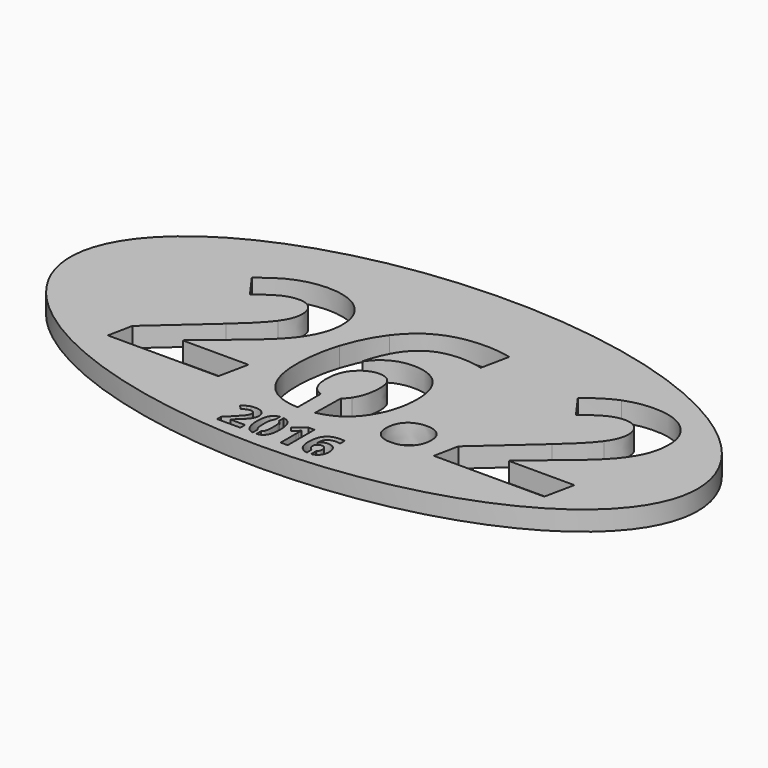
from build123d import *

# Parameters (mm, degrees)
F1_DEPTH = 3.175
F3_DEPTH = 3.175


with BuildPart() as f1:
    # F0 (on Top) → F1 (new body)
    with BuildSketch(Plane.XY):
        with BuildLine():
            add(Edge.make_bspline(
                [(50.8, 0), (50.8, 43.9940905122), (-25.4, 21.9970452561), (-101.6, 0), (-25.4, -21.9970452561), (50.8, -43.9940905122), (50.8, 0)],
                knots=[0, 0, 0, 2.0943951024, 2.0943951024, 4.1887902048, 4.1887902048, 6.2831853072, 6.2831853072, 6.2831853072], degree=2, weights=[1, 0.5, 1, 0.5, 1, 0.5, 1]))
        make_face()
        with BuildLine():
            Line((-14.7867109591, -8.9636122593), (-15.7918080027, -13.798783244))
            Line((-15.7918080027, -13.798783244), (-33.6694512747, -13.798783244))
            Line((-33.6694512747, -13.798783244), (-32.8725104236, -9.8378682676))
            Line((-32.8725104236, -9.8378682676), (-24.005056625, -1.9576695532))
            add(Edge.make_bspline(
                [(-24.005056625, -1.9576695532), (-20.6626629061, 0.9981483797), (-19.3869628124, 2.7704496754)],
                knots=[0, 0, 0, 1, 1, 1], degree=2))
            add(Edge.make_bspline(
                [(-19.3869628124, 2.7704496754), (-18.1112627186, 4.5427509712), (-18.1112627186, 6.1068960745)],
                knots=[0, 0, 0, 1, 1, 1], degree=2))
            add(Edge.make_bspline(
                [(-18.1112627186, 6.1068960745), (-18.1112627186, 7.4985689041), (-18.8754933109, 8.2330628974)],
                knots=[0, 0, 0, 1, 1, 1], degree=2))
            add(Edge.make_bspline(
                [(-18.8754933109, 8.2330628974), (-19.6397239032, 8.9675568908), (-20.9183976569, 8.9675568908)],
                knots=[0, 0, 0, 1, 1, 1], degree=2))
            add(Edge.make_bspline(
                [(-20.9183976569, 8.9675568908), (-22.1494928522, 8.9675568908), (-23.4400612455, 8.3460619733)],
                knots=[0, 0, 0, 1, 1, 1], degree=2))
            add(Edge.make_bspline(
                [(-23.4400612455, 8.3460619733), (-24.7306296387, 7.7245670559), (-26.6278246499, 6.1425799932)],
                knots=[0, 0, 0, 1, 1, 1], degree=2))
            Line((-26.6278246499, 6.1425799932), (-29.3398024716, 9.9191280563))
            add(Edge.make_bspline(
                [(-29.3398024716, 9.9191280563), (-26.8835594007, 12.0006899809), (-24.6533144815, 12.880893309)],
                knots=[0, 0, 0, 1, 1, 1], degree=2))
            add(Edge.make_bspline(
                [(-24.6533144815, 12.880893309), (-22.4230695623, 13.7610966371), (-20.0084577299, 13.7610966371)],
                knots=[0, 0, 0, 1, 1, 1], degree=2))
            add(Edge.make_bspline(
                [(-20.0084577299, 13.7610966371), (-16.4757497779, 13.7610966371), (-14.4150034726, 11.941216783)],
                knots=[0, 0, 0, 1, 1, 1], degree=2))
            add(Edge.make_bspline(
                [(-14.4150034726, 11.941216783), (-12.3542571673, 10.121336929), (-12.3542571673, 7.1298350774)],
                knots=[0, 0, 0, 1, 1, 1], degree=2))
            add(Edge.make_bspline(
                [(-12.3542571673, 7.1298350774), (-12.3542571673, 5.1374829496), (-13.1155140997, 3.3919445929)],
                knots=[0, 0, 0, 1, 1, 1], degree=2))
            add(Edge.make_bspline(
                [(-13.1155140997, 3.3919445929), (-13.8767710321, 1.6464062362), (-15.3903639172, -0.1021057805)],
                knots=[0, 0, 0, 1, 1, 1], degree=2))
            add(Edge.make_bspline(
                [(-15.3903639172, -0.1021057805), (-16.9039568024, -1.8506177971), (-20.3415076378, -4.6518054156)],
                knots=[0, 0, 0, 1, 1, 1], degree=2))
            Line((-20.3415076378, -4.6518054156), (-25.3432035765, -8.779245346))
            Line((-25.3432035765, -8.779245346), (-25.3432035765, -8.9636122593))
            Line((-25.3432035765, -8.9636122593), (-14.7867109591, -8.9636122593))
        make_face(mode=Mode.SUBTRACT)
        with BuildLine():
            Line((-2.6447877754, -15.1289803907), (-2.6447877754, -14.1658148106))
            add(Edge.make_bspline(
                [(-2.6447877754, -14.1658148106), (-6.2595057728, -14.0390719969), (-8.1524757396, -11.812378436)],
                knots=[0.0569197378, 0.0569197378, 0.0569197378, 1, 1, 1], degree=2))
            add(Edge.make_bspline(
                [(-8.1524757396, -11.812378436), (-10.1596961668, -9.4512924816), (-10.1596961668, -5.08001244)],
                knots=[0, 0, 0, 1, 1, 1], degree=2))
            add(Edge.make_bspline(
                [(-10.1596961668, -5.08001244), (-10.1596961668, -1.3272536561), (-9.0267317479, 2.2679011536)],
                knots=[0, 0, 0, 1, 1, 1], degree=2))
            add(Edge.make_bspline(
                [(-9.0267317479, 2.2679011536), (-7.8937673289, 5.8630559633), (-5.9133098407, 8.494744968)],
                knots=[0, 0, 0, 1, 1, 1], degree=2))
            add(Edge.make_bspline(
                [(-5.9133098407, 8.494744968), (-3.9328523525, 11.1264339726), (-1.1465330335, 12.4645809241)],
                knots=[0, 0, 0, 1, 1, 1], degree=2))
            add(Edge.make_bspline(
                [(-1.1465330335, 12.4645809241), (1.6397862855, 13.8027278756), (5.487702186, 13.8027278756)],
                knots=[0, 0, 0, 1, 1, 1], degree=2))
            add(Edge.make_bspline(
                [(5.487702186, 13.8027278756), (7.8131042218, 13.8027278756), (9.6329840758, 13.2972056939)],
                knots=[0, 0, 0, 1, 1, 1], degree=2))
            Line((9.6329840758, 13.2972056939), (8.6873602301, 8.7296640994))
            add(Edge.make_bspline(
                [(8.6873602301, 8.7296640994), (7.1232151268, 9.1935550426), (5.1368103188, 9.1935550426)],
                knots=[0, 0, 0, 1, 1, 1], degree=2))
            add(Edge.make_bspline(
                [(5.1368103188, 9.1935550426), (1.5327345294, 9.1935550426), (-0.6885894101, 7.1863346154)],
                knots=[0, 0, 0, 1, 1, 1], degree=2))
            add(Edge.make_bspline(
                [(-0.6885894101, 7.1863346154), (-2.9099133496, 5.1791141881), (-4.1350612252, 0.7721502279)],
                knots=[0, 0, 0, 1, 1, 1], degree=2))
            Line((-4.1350612252, 0.7721502279), (-4.0636933878, 0.7721502279))
            add(Edge.make_bspline(
                [(-4.0636933878, 0.7721502279), (-1.9286055851, 3.858809196), (1.7171014427, 3.858809196)],
                knots=[0, 0, 0, 1, 1, 1], degree=2))
            add(Edge.make_bspline(
                [(1.7171014427, 3.858809196), (4.6372354569, 3.858809196), (6.2251698393, 2.0567713013)],
                knots=[0, 0, 0, 1, 1, 1], degree=2))
            add(Edge.make_bspline(
                [(6.2251698393, 2.0567713013), (7.8131042218, 0.2547334066), (7.8131042218, -3.0162924748)],
                knots=[0, 0, 0, 1, 1, 1], degree=2))
            add(Edge.make_bspline(
                [(7.8131042218, -3.0162924748), (7.8131042218, -6.1624246408), (6.4927992296, -8.8476395235)],
                knots=[0, 0, 0, 1, 1, 1], degree=2))
            add(Edge.make_bspline(
                [(6.4927992296, -8.8476395235), (5.1724942375, -11.5328544062), (2.951170298, -12.8531593983)],
                knots=[0, 0, 0, 1, 1, 1], degree=2))
            add(Edge.make_bspline(
                [(2.951170298, -12.8531593983), (1.6152556532, -13.6471970185), (0.0222879216, -13.9636966864)],
                knots=[0, 0, 0, 0.6014046943, 0.6014046943, 0.6014046943], degree=2))
            Line((0.0222879216, -13.9636966864), (0, -15.1289803907))
            Line((0, -15.1289803907), (-2.6447877754, -15.1289803907))
        make_face(mode=Mode.SUBTRACT)
        with BuildLine():
            add(Edge.make_bspline(
                [(10.3942410082, -13.6025216911), (9.6329840758, -12.9066852764), (9.6329840758, -11.6636954414)],
                knots=[0, 0, 0, 1, 1, 1], degree=2))
            add(Edge.make_bspline(
                [(9.6329840758, -11.6636954414), (9.6329840758, -9.9865512622), (10.6291601397, -8.9844278785)],
                knots=[0, 0, 0, 1, 1, 1], degree=2))
            add(Edge.make_bspline(
                [(10.6291601397, -8.9844278785), (11.6253362036, -7.9823044948), (13.4273740983, -7.9823044948)],
                knots=[0, 0, 0, 1, 1, 1], degree=2))
            add(Edge.make_bspline(
                [(13.4273740983, -7.9823044948), (14.6882058926, -7.9823044948), (15.449462825, -8.6870618893)],
                knots=[0, 0, 0, 1, 1, 1], degree=2))
            add(Edge.make_bspline(
                [(15.449462825, -8.6870618893), (16.2107197574, -9.3918192838), (16.2107197574, -10.6764403572)],
                knots=[0, 0, 0, 1, 1, 1], degree=2))
            add(Edge.make_bspline(
                [(16.2107197574, -10.6764403572), (16.2107197574, -12.2941113386), (15.1907544144, -13.2962347222)],
                knots=[0, 0, 0, 1, 1, 1], degree=2))
            add(Edge.make_bspline(
                [(15.1907544144, -13.2962347222), (14.1707890713, -14.2983581059), (12.5174341713, -14.2983581059)],
                knots=[0, 0, 0, 1, 1, 1], degree=2))
            add(Edge.make_bspline(
                [(12.5174341713, -14.2983581059), (11.1554979406, -14.2983581059), (10.3942410082, -13.6025216911)],
                knots=[0, 0, 0, 1, 1, 1], degree=2))
        make_face(mode=Mode.SUBTRACT)
        with BuildLine():
            Line((37.9957521278, -8.9636122593), (36.9906550842, -13.798783244))
            Line((36.9906550842, -13.798783244), (19.1130118122, -13.798783244))
            Line((19.1130118122, -13.798783244), (19.9099526633, -9.8378682676))
            Line((19.9099526633, -9.8378682676), (28.7774064619, -1.9576695532))
            add(Edge.make_bspline(
                [(28.7774064619, -1.9576695532), (32.1198001808, 0.9981483797), (33.3955002745, 2.7704496754)],
                knots=[0, 0, 0, 1, 1, 1], degree=2))
            add(Edge.make_bspline(
                [(33.3955002745, 2.7704496754), (34.6712003683, 4.5427509712), (34.6712003683, 6.1068960745)],
                knots=[0, 0, 0, 1, 1, 1], degree=2))
            add(Edge.make_bspline(
                [(34.6712003683, 6.1068960745), (34.6712003683, 7.4985689041), (33.906969776, 8.2330628974)],
                knots=[0, 0, 0, 1, 1, 1], degree=2))
            add(Edge.make_bspline(
                [(33.906969776, 8.2330628974), (33.1427391837, 8.9675568908), (31.86406543, 8.9675568908)],
                knots=[0, 0, 0, 1, 1, 1], degree=2))
            add(Edge.make_bspline(
                [(31.86406543, 8.9675568908), (30.6329702347, 8.9675568908), (29.3424018414, 8.3460619733)],
                knots=[0, 0, 0, 1, 1, 1], degree=2))
            add(Edge.make_bspline(
                [(29.3424018414, 8.3460619733), (28.0518334482, 7.7245670559), (26.154638437, 6.1425799932)],
                knots=[0, 0, 0, 1, 1, 1], degree=2))
            Line((26.154638437, 6.1425799932), (23.4426606153, 9.9191280563))
            add(Edge.make_bspline(
                [(23.4426606153, 9.9191280563), (25.8989036863, 12.0006899809), (28.1291486054, 12.880893309)],
                knots=[0, 0, 0, 1, 1, 1], degree=2))
            add(Edge.make_bspline(
                [(28.1291486054, 12.880893309), (30.3593935246, 13.7610966371), (32.7740053571, 13.7610966371)],
                knots=[0, 0, 0, 1, 1, 1], degree=2))
            add(Edge.make_bspline(
                [(32.7740053571, 13.7610966371), (36.306713309, 13.7610966371), (38.3674596143, 11.941216783)],
                knots=[0, 0, 0, 1, 1, 1], degree=2))
            add(Edge.make_bspline(
                [(38.3674596143, 11.941216783), (40.4282059196, 10.121336929), (40.4282059196, 7.1298350774)],
                knots=[0, 0, 0, 1, 1, 1], degree=2))
            add(Edge.make_bspline(
                [(40.4282059196, 7.1298350774), (40.4282059196, 5.1374829496), (39.6669489872, 3.3919445929)],
                knots=[0, 0, 0, 1, 1, 1], degree=2))
            add(Edge.make_bspline(
                [(39.6669489872, 3.3919445929), (38.9056920548, 1.6464062362), (37.3920991697, -0.1021057805)],
                knots=[0, 0, 0, 1, 1, 1], degree=2))
            add(Edge.make_bspline(
                [(37.3920991697, -0.1021057805), (35.8785062845, -1.8506177971), (32.4409554491, -4.6518054156)],
                knots=[0, 0, 0, 1, 1, 1], degree=2))
            Line((32.4409554491, -4.6518054156), (27.4392595104, -8.779245346))
            Line((27.4392595104, -8.779245346), (27.4392595104, -8.9636122593))
            Line((27.4392595104, -8.9636122593), (37.9957521278, -8.9636122593))
        make_face(mode=Mode.SUBTRACT)
        with BuildLine():
            Line((-2.6447877754, -9.4958134831), (-2.6447877754, -9.1864941642))
            Line((-2.6447877754, -9.1864941642), (-2.6447877754, -8.6337163388))
            Line((-2.6447877754, -8.6337163388), (0.1232197405, -8.6866589263))
            Line((0.1232197405, -8.6866589263), (0.1195827638, -8.8768116821))
            add(Edge.make_bspline(
                [(0.1195827638, -8.8768116821), (0.633793674, -8.4716094497), (1.0569489466, -7.8336215002)],
                knots=[0.6351252131, 0.6351252131, 0.6351252131, 1, 1, 1], degree=2))
            add(Edge.make_bspline(
                [(1.0569489466, -7.8336215002), (2.2166763046, -6.0851094836), (2.2166763046, -3.4444994993)],
                knots=[0, 0, 0, 1, 1, 1], degree=2))
            add(Edge.make_bspline(
                [(2.2166763046, -3.4444994993), (2.2166763046, -2.1241945072), (1.5951813871, -1.3361746357)],
                knots=[0, 0, 0, 1, 1, 1], degree=2))
            add(Edge.make_bspline(
                [(1.5951813871, -1.3361746357), (0.9736864697, -0.5481547643), (-0.3109346038, -0.5481547643)],
                knots=[0, 0, 0, 1, 1, 1], degree=2))
            add(Edge.make_bspline(
                [(-0.3109346038, -0.5481547643), (-1.4230834035, -0.5481547643), (-2.4371014267, -1.2083072604)],
                knots=[0, 0, 0, 1, 1, 1], degree=2))
            add(Edge.make_bspline(
                [(-2.4371014267, -1.2083072604), (-3.45111945, -1.8684597564), (-4.0636933878, -2.983582216)],
                knots=[0, 0, 0, 1, 1, 1], degree=2))
            add(Edge.make_bspline(
                [(-4.0636933878, -2.983582216), (-4.6762673256, -4.0987046756), (-4.6762673256, -5.9542684483)],
                knots=[0, 0, 0, 1, 1, 1], degree=2))
            add(Edge.make_bspline(
                [(-4.6762673256, -5.9542684483), (-4.6762673256, -7.6492545869), (-3.9328523525, -8.6156940519)],
                knots=[0, 0, 0, 1, 1, 1], degree=2))
            add(Edge.make_bspline(
                [(-3.9328523525, -8.6156940519), (-3.4116147264, -9.2933029658), (-2.6447877754, -9.4958134831)],
                knots=[0, 0, 0, 0.7011395317, 0.7011395317, 0.7011395317], degree=2))
        make_face()
        with BuildLine():
            add(Edge.make_bspline(
                [(-2.6447877754, -9.4958134831), (-2.3179280687, -9.5821335169), (-1.9464475445, -9.5821335169)],
                knots=[0.7011395317, 0.7011395317, 0.7011395317, 1, 1, 1], degree=2))
            Line((-2.6447877754, -9.4958134831), (-2.6447877754, -14.1658148106))
            add(Edge.make_bspline(
                [(-2.2021822952, -14.1734643904), (-2.4266209776, -14.1734643904), (-2.6447877754, -14.1658148106)],
                knots=[0, 0, 0, 0.0569197378, 0.0569197378, 0.0569197378], degree=2))
            add(Edge.make_bspline(
                [(0.0222879216, -13.9636966864), (-1.0334894377, -14.1734643904), (-2.2021822952, -14.1734643904)],
                knots=[0.6014046943, 0.6014046943, 0.6014046943, 1, 1, 1], degree=2))
            Line((0.0222879216, -13.9636966864), (0.1195827638, -8.8768116821))
            add(Edge.make_bspline(
                [(-1.9464475445, -9.5821335169), (-0.7754867934, -9.5821335169), (0.1195827638, -8.8768116821)],
                knots=[0, 0, 0, 0.6351252131, 0.6351252131, 0.6351252131], degree=2))
        make_face()
        with BuildLine():
            add(Edge.make_bspline(
                [(-2.2021822952, -14.1734643904), (-2.4266209776, -14.1734643904), (-2.6447877754, -14.1658148106)],
                knots=[0, 0, 0, 0.0569197378, 0.0569197378, 0.0569197378], degree=2))
            Line((-2.6447877754, -14.1658148106), (-2.6447877754, -15.1289803907))
            Line((-2.6447877754, -15.1289803907), (0, -15.1289803907))
            Line((0, -15.1289803907), (0.0222879216, -13.9636966864))
            add(Edge.make_bspline(
                [(0.0222879216, -13.9636966864), (-1.0334894377, -14.1734643904), (-2.2021822952, -14.1734643904)],
                knots=[0.6014046943, 0.6014046943, 0.6014046943, 1, 1, 1], degree=2))
        make_face()
        with BuildLine():
            Line((-2.6447877754, -8.6337163388), (-2.6447877754, -9.1864941642))
            Line((-2.6447877754, -9.1864941642), (-2.6447877754, -9.4958134831))
            add(Edge.make_bspline(
                [(-2.6447877754, -9.4958134831), (-2.3179280687, -9.5821335169), (-1.9464475445, -9.5821335169)],
                knots=[0.7011395317, 0.7011395317, 0.7011395317, 1, 1, 1], degree=2))
            add(Edge.make_bspline(
                [(-1.9464475445, -9.5821335169), (-0.7754867934, -9.5821335169), (0.1195827638, -8.8768116821)],
                knots=[0, 0, 0, 0.6351252131, 0.6351252131, 0.6351252131], degree=2))
            Line((0.1195827638, -8.8768116821), (0.1232197405, -8.6866589263))
            Line((0.1232197405, -8.6866589263), (-2.6447877754, -8.6337163388))
        make_face()
    extrude(amount=F1_DEPTH)

    # F2 (on face) → F3 (cut)
    with BuildSketch(Plane.XY.offset(3.175)):
        with BuildLine():
            Line((-8.5847467449, -23.0602808297), (-4.8122147879, -23.0602808297))
            Line((-4.8122147879, -23.0602808297), (-4.8122147879, -22.100021443))
            Line((-4.8122147879, -22.100021443), (-7.163846324, -22.100021443))
            Line((-7.163846324, -22.100021443), (-7.163846324, -22.0492328161))
            Line((-7.163846324, -22.0492328161), (-6.4693413802, -21.3960674523))
            add(Edge.make_bspline(
                [(-5.5008140775, -20.4175005373), (-5.7760175672, -20.7606190512), (-6.4693413802, -21.3960674523)],
                knots=[0, 0, 0, 1, 1, 1], degree=2))
            add(Edge.make_bspline(
                [(-5.0945050627, -19.7477993414), (-5.2256105878, -20.0743820234), (-5.5008140775, -20.4175005373)],
                knots=[0, 0, 0, 1, 1, 1], degree=2))
            add(Edge.make_bspline(
                [(-4.9633995376, -19.0479793087), (-4.9633995376, -19.4212166595), (-5.0945050627, -19.7477993414)],
                knots=[0, 0, 0, 1, 1, 1], degree=2))
            add(Edge.make_bspline(
                [(-5.1777747881, -18.2879216023), (-4.9633995376, -18.6204099385), (-4.9633995376, -19.0479793087)],
                knots=[0, 0, 0, 1, 1, 1], degree=2))
            add(Edge.make_bspline(
                [(-5.7795609597, -17.7711768524), (-5.3921500387, -17.955433266), (-5.1777747881, -18.2879216023)],
                knots=[0, 0, 0, 1, 1, 1], degree=2))
            add(Edge.make_bspline(
                [(-6.6724958876, -17.5869204387), (-6.1669718808, -17.5869204387), (-5.7795609597, -17.7711768524)],
                knots=[0, 0, 0, 1, 1, 1], degree=2))
            add(Edge.make_bspline(
                [(-7.366410266, -17.6625128135), (-7.0563634161, -17.5869204387), (-6.6724958876, -17.5869204387)],
                knots=[0, 0, 0, 1, 1, 1], degree=2))
            add(Edge.make_bspline(
                [(-7.9386681662, -17.8780691949), (-7.676457116, -17.7381051884), (-7.366410266, -17.6625128135)],
                knots=[0, 0, 0, 1, 1, 1], degree=2))
            add(Edge.make_bspline(
                [(-8.5989203152, -18.3581988883), (-8.2008792164, -18.0180332015), (-7.9386681662, -17.8780691949)],
                knots=[0, 0, 0, 1, 1, 1], degree=2))
            Line((-8.5989203152, -18.3581988883), (-7.9788266153, -19.0928622813))
            add(Edge.make_bspline(
                [(-7.362276308, -18.6830098739), (-7.6575590222, -18.8271078385), (-7.9788266153, -19.0928622813)],
                knots=[0, 0, 0, 1, 1, 1], degree=2))
            add(Edge.make_bspline(
                [(-6.7539939167, -18.5389119094), (-7.0669935938, -18.5389119094), (-7.362276308, -18.6830098739)],
                knots=[0, 0, 0, 1, 1, 1], degree=2))
            add(Edge.make_bspline(
                [(-6.2756359196, -18.6977740096), (-6.4551678099, -18.5389119094), (-6.7539939167, -18.5389119094)],
                knots=[0, 0, 0, 1, 1, 1], degree=2))
            add(Edge.make_bspline(
                [(-6.0961040294, -19.1814470955), (-6.0961040294, -18.8566361099), (-6.2756359196, -18.6977740096)],
                knots=[0, 0, 0, 1, 1, 1], degree=2))
            add(Edge.make_bspline(
                [(-6.1776020585, -19.6019296806), (-6.0961040294, -19.3987751732), (-6.0961040294, -19.1814470955)],
                knots=[0, 0, 0, 1, 1, 1], degree=2))
            add(Edge.make_bspline(
                [(-6.4433565013, -20.0430820557), (-6.2591000876, -19.805084188), (-6.1776020585, -19.6019296806)],
                knots=[0, 0, 0, 1, 1, 1], degree=2))
            add(Edge.make_bspline(
                [(-7.229989652, -20.8976302306), (-6.627612915, -20.2810799233), (-6.4433565013, -20.0430820557)],
                knots=[0, 0, 0, 1, 1, 1], degree=2))
            Line((-7.229989652, -20.8976302306), (-8.5847467449, -22.2665608938))
            Line((-8.5847467449, -22.2665608938), (-8.5847467449, -23.0602808297))
        make_face()
        with BuildLine():
            Line((-2.7703233063, -18.6168916865), (-2.7703233063, -17.6041515617))
            add(Edge.make_bspline(
                [(-3.837781831, -18.2560310691), (-3.4655623378, -17.7100774136), (-2.7703233063, -17.6041515617)],
                knots=[0, 0, 0, 0.8059801397, 0.8059801397, 0.8059801397], degree=2))
            add(Edge.make_bspline(
                [(-4.299603996, -20.3625779525), (-4.299603996, -18.9334096156), (-3.837781831, -18.2560310691)],
                knots=[0, 0, 0, 1, 1, 1], degree=2))
            add(Edge.make_bspline(
                [(-3.825379957, -22.4331003446), (-4.299603996, -21.7315086156), (-4.299603996, -20.3625779525)],
                knots=[0, 0, 0, 1, 1, 1], degree=2))
            add(Edge.make_bspline(
                [(-2.7703233063, -23.1069383008), (-3.4454756047, -22.9951506192), (-3.825379957, -22.4331003446)],
                knots=[0.1988926731, 0.1988926731, 0.1988926731, 1, 1, 1], degree=2))
            Line((-2.7703233063, -23.1069383008), (-2.7703233063, -22.1026572452))
            add(Edge.make_bspline(
                [(-2.9944543991, -21.7846595042), (-2.9105774828, -21.9952194871), (-2.7703233063, -22.1026572452)],
                knots=[0, 0, 0, 0.4897522472, 0.4897522472, 0.4897522472], degree=2))
            add(Edge.make_bspline(
                [(-3.1657183734, -20.3625779525), (-3.1657183734, -21.3547278723), (-2.9944543991, -21.7846595042)],
                knots=[0, 0, 0, 1, 1, 1], degree=2))
            add(Edge.make_bspline(
                [(-2.9926827028, -18.9357718773), (-3.1657183734, -19.3692469018), (-3.1657183734, -20.3625779525)],
                knots=[0, 0, 0, 1, 1, 1], degree=2))
            add(Edge.make_bspline(
                [(-2.7703233063, -18.6168916865), (-2.9086155018, -18.7251734966), (-2.9926827028, -18.9357718773)],
                knots=[0.5141625958, 0.5141625958, 0.5141625958, 1, 1, 1], degree=2))
        make_face()
        with BuildLine():
            add(Edge.make_bspline(
                [(-2.1594136488, -17.593097725), (-1.4143960112, -17.6798306058), (-1.0048394706, -18.2873310368)],
                knots=[0.1427700729, 0.1427700729, 0.1427700729, 1, 1, 1], degree=2))
            Line((-2.1594136488, -17.593097725), (-2.1594136488, -18.5591117596))
            add(Edge.make_bspline(
                [(-1.8428518136, -18.9357718773), (-1.9573870928, -18.6592294598), (-2.1594136488, -18.5591117596)],
                knots=[0, 0, 0, 0.6379662078, 0.6379662078, 0.6379662078], degree=2))
            add(Edge.make_bspline(
                [(-1.6633199234, -20.3625779525), (-1.6633199234, -19.3692469018), (-1.8428518136, -18.9357718773)],
                knots=[0, 0, 0, 1, 1, 1], degree=2))
            add(Edge.make_bspline(
                [(-1.8404895519, -21.7793444153), (-1.6633199234, -21.3440976946), (-1.6633199234, -20.3625779525)],
                knots=[0, 0, 0, 1, 1, 1], degree=2))
            add(Edge.make_bspline(
                [(-2.1594136488, -22.158767329), (-1.954209236, -22.0587157725), (-1.8404895519, -21.7793444153)],
                knots=[0.3581310464, 0.3581310464, 0.3581310464, 1, 1, 1], degree=2))
            Line((-2.1594136488, -22.158767329), (-2.1594136488, -23.121642498))
            add(Edge.make_bspline(
                [(-0.9900753349, -22.4549512655), (-1.3889265711, -23.0405096492), (-2.1594136488, -23.121642498)],
                knots=[0, 0, 0, 0.8614436219, 0.8614436219, 0.8614436219], degree=2))
            add(Edge.make_bspline(
                [(-0.527072039, -20.3625779525), (-0.527072039, -21.7752104573), (-0.9900753349, -22.4549512655)],
                knots=[0, 0, 0, 1, 1, 1], degree=2))
            add(Edge.make_bspline(
                [(-1.0048394706, -18.2873310368), (-0.527072039, -18.996009551), (-0.527072039, -20.3625779525)],
                knots=[0, 0, 0, 1, 1, 1], degree=2))
        make_face()
        with BuildLine():
            Line((1.7241633743, -23.0602808297), (2.8651357821, -23.0602808297))
            Line((2.8651357821, -23.0602808297), (2.8651357821, -17.6636939444))
            Line((2.8651357821, -17.6636939444), (1.9273178817, -17.6636939444))
            Line((1.9273178817, -17.6636939444), (0.1886932603, -19.0479793087))
            Line((0.1886932603, -19.0479793087), (0.7391002396, -19.7342163366))
            Line((0.7391002396, -19.7342163366), (1.3591939395, -19.235779115))
            add(Edge.make_bspline(
                [(1.7536916457, -18.863722895), (1.4702202401, -19.1471943007), (1.3591939395, -19.235779115)],
                knots=[0, 0, 0, 1, 1, 1], degree=2))
            Line((1.7536916457, -18.863722895), (1.7359746829, -19.4247600521))
            Line((1.7359746829, -19.4247600521), (1.7241633743, -19.937370844))
            Line((1.7241633743, -19.937370844), (1.7241633743, -23.0602808297))
        make_face()
        with BuildLine():
            Line((6.0032657348, -23.1172086992), (6.0032657348, -22.172566489))
            add(Edge.make_bspline(
                [(5.6862668338, -21.9198989873), (5.8230964734, -22.099422274), (6.0032657348, -22.172566489)],
                knots=[0, 0, 0, 0.5925641942, 0.5925641942, 0.5925641942], degree=2))
            add(Edge.make_bspline(
                [(5.4553557513, -21.1775582437), (5.4553557513, -21.6169389225), (5.6862668338, -21.9198989873)],
                knots=[0, 0, 0, 1, 1, 1], degree=2))
            add(Edge.make_bspline(
                [(5.7010309696, -20.6537267087), (5.4553557513, -20.8787321369), (5.4553557513, -21.1775582437)],
                knots=[0, 0, 0, 1, 1, 1], degree=2))
            add(Edge.make_bspline(
                [(6.2939586597, -20.4287212804), (5.9467061878, -20.4287212804), (5.7010309696, -20.6537267087)],
                knots=[0, 0, 0, 1, 1, 1], degree=2))
            add(Edge.make_bspline(
                [(6.8455467699, -20.655498405), (6.6624714871, -20.4287212804), (6.2939586597, -20.4287212804)],
                knots=[0, 0, 0, 1, 1, 1], degree=2))
            add(Edge.make_bspline(
                [(7.0286220527, -21.2779543666), (7.0286220527, -20.8822755295), (6.8455467699, -20.655498405)],
                knots=[0, 0, 0, 1, 1, 1], degree=2))
            add(Edge.make_bspline(
                [(6.8325543305, -21.9771838339), (7.0286220527, -21.7315086156), (7.0286220527, -21.2779543666)],
                knots=[0, 0, 0, 1, 1, 1], degree=2))
            add(Edge.make_bspline(
                [(6.6905044951, -22.1087711228), (6.7700985505, -22.0554416787), (6.8325543305, -21.9771838339)],
                knots=[0.6814581244, 0.6814581244, 0.6814581244, 1, 1, 1], degree=2))
            Line((6.6905044951, -22.1087711228), (6.6905044951, -23.1050468726))
            add(Edge.make_bspline(
                [(7.6445817946, -22.6303491977), (7.2754887934, -23.0124163772), (6.6905044951, -23.1050468726)],
                knots=[0, 0, 0, 0.7575544292, 0.7575544292, 0.7575544292], degree=2))
            add(Edge.make_bspline(
                [(8.1317982731, -21.2625996654), (8.1317982731, -22.1260063218), (7.6445817946, -22.6303491977)],
                knots=[0, 0, 0, 1, 1, 1], degree=2))
            add(Edge.make_bspline(
                [(7.7219458657, -20.00764813), (8.1317982731, -20.4617929444), (8.1317982731, -21.2625996654)],
                knots=[0, 0, 0, 1, 1, 1], degree=2))
            add(Edge.make_bspline(
                [(6.589241374, -19.5535033155), (7.3120934584, -19.5535033155), (7.7219458657, -20.00764813)],
                knots=[0, 0, 0, 1, 1, 1], degree=2))
            add(Edge.make_bspline(
                [(5.4187406947, -20.1806838005), (5.7848912604, -19.5535033155), (6.589241374, -19.5535033155)],
                knots=[0, 0, 0, 1, 1, 1], degree=2))
            Line((5.4187406947, -20.1806838005), (5.3714954605, -20.1806838005))
            add(Edge.make_bspline(
                [(5.5888235381, -19.1956206658), (5.4045671245, -19.5428731378), (5.3714954605, -20.1806838005)],
                knots=[0, 0, 0, 1, 1, 1], degree=2))
            add(Edge.make_bspline(
                [(6.1439550409, -18.6711985653), (5.7730799518, -18.8483681939), (5.5888235381, -19.1956206658)],
                knots=[0, 0, 0, 1, 1, 1], degree=2))
            add(Edge.make_bspline(
                [(7.1018521659, -18.4940289368), (6.51483013, -18.4940289368), (6.1439550409, -18.6711985653)],
                knots=[0, 0, 0, 1, 1, 1], degree=2))
            add(Edge.make_bspline(
                [(7.7514741372, -18.5684401808), (7.4231197589, -18.4940289368), (7.1018521659, -18.4940289368)],
                knots=[0, 0, 0, 1, 1, 1], degree=2))
            Line((7.7514741372, -18.5684401808), (7.7514741372, -17.6566071592))
            add(Edge.make_bspline(
                [(7.0286220527, -17.601094009), (7.4892630869, -17.601094009), (7.7514741372, -17.6566071592)],
                knots=[0, 0, 0, 1, 1, 1], degree=2))
            add(Edge.make_bspline(
                [(5.000029806, -18.3835932017), (5.6774083524, -17.601094009), (7.0286220527, -17.601094009)],
                knots=[0, 0, 0, 1, 1, 1], degree=2))
            add(Edge.make_bspline(
                [(4.3226512595, -20.7677058364), (4.3226512595, -19.1660923944), (5.000029806, -18.3835932017)],
                knots=[0, 0, 0, 1, 1, 1], degree=2))
            add(Edge.make_bspline(
                [(4.5641925198, -22.0492328161), (4.3226512595, -21.5177239305), (4.3226512595, -20.7677058364)],
                knots=[0, 0, 0, 1, 1, 1], degree=2))
            add(Edge.make_bspline(
                [(5.2510201131, -22.8577168877), (4.80573378, -22.5807417018), (4.5641925198, -22.0492328161)],
                knots=[0, 0, 0, 1, 1, 1], degree=2))
            add(Edge.make_bspline(
                [(6.0032657348, -23.1172086992), (5.5844318284, -23.065104281), (5.2510201131, -22.8577168877)],
                knots=[0.2512419748, 0.2512419748, 0.2512419748, 1, 1, 1], degree=2))
        make_face()
    extrude(amount=-F3_DEPTH, mode=Mode.SUBTRACT)


solid = f1.part
